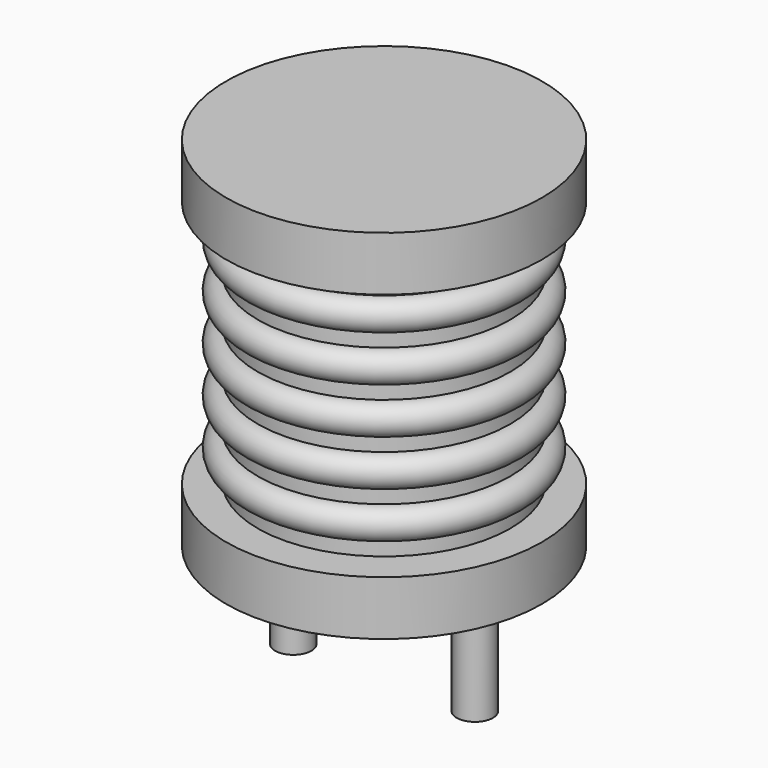
from build123d import *

# Parameters (mm, degrees)
SKETCH001_R  = 0.5
PAD001_DEPTH = 3.5


with BuildPart() as revolution:
    # Sketch → Revolution (revolve)
    with BuildSketch(Plane(origin=(2.5, 0, 0), x_dir=(1, 0, 0), z_dir=(0, -1, 0))):
        Polygon((0, 0.05), (1.5, 0.05), (1.5, 0.2), (4.35, 0.2), (4.35, 1.7), (0.87, 1.7), (0.87, 8.55), (4.35, 8.55), (4.35, 10.05), (0, 10.05), align=None)
    revolve(axis=Axis((2.5, 0, 0), (0, 0, 1)))


with BuildPart() as pad001:
    # Sketch001 → Pad001 (new body)
    with BuildSketch(Plane.XY.offset(0.5)):
        Circle(SKETCH001_R)
        with Locations((5, 0)):
            Circle(SKETCH001_R)
    extrude(amount=-PAD001_DEPTH)


with BuildPart() as obj1:
    # Sketch002 → Revolution001 (revolve)
    with BuildSketch(Plane(origin=(2.5, 0, 0), x_dir=(1, 0, 0), z_dir=(0, -1, 0))):
        with BuildLine():
            Line((3.48, 1.75), (0.87, 1.75))
            Line((0.87, 1.75), (0.87, 8.5))
            Line((0.87, 8.5), (3.48, 8.5))
            Line((3.48, 8.5), (3.48, 8.078125))
            ThreePointArc((3.48, 7.234375), (3.901875, 7.65625), (3.48, 8.078125))
            Line((3.48, 7.234375), (3.48, 6.8125))
            ThreePointArc((3.48, 5.96875), (3.901875, 6.390625), (3.48, 6.8125))
            Line((3.48, 5.96875), (3.48, 5.546875))
            ThreePointArc((3.48, 4.703125), (3.901875, 5.125), (3.48, 5.546875))
            Line((3.48, 4.703125), (3.48, 4.28125))
            ThreePointArc((3.48, 3.4375), (3.901875, 3.859375), (3.48, 4.28125))
            Line((3.48, 3.4375), (3.48, 3.015625))
            ThreePointArc((3.48, 2.171875), (3.901875, 2.59375), (3.48, 3.015625))
            Line((3.48, 1.75), (3.48, 2.171875))
        make_face()
    revolve(axis=Axis((2.5, 0, 0), (0, 0, 1)))

    add(revolution.part)
    add(pad001.part)


solid = obj1.part
